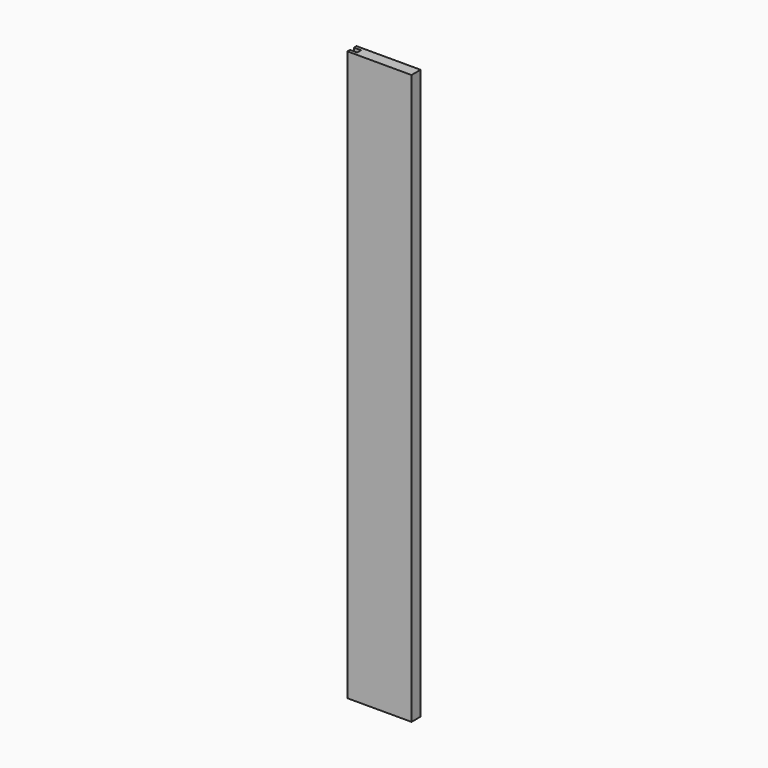
from build123d import *

# Parameters (mm, degrees)
F1_DEPTH = 950
F3_DEPTH = 950.001


with BuildPart() as f1:
    # F0 (on Top) → F1 (new body)
    with BuildSketch(Plane.XY):
        Polygon((0, -4), (0, -9.5), (136, -9.5), (136, -4), (146, -4), (146, 4), (116, 4), (110.5, 9.5), (0, 9.5), (0, 4), (12, 4), (12, -4), align=None)
    extrude(amount=F1_DEPTH)

    # F2 (on face) → F3 (cut, through all)
    with BuildSketch(Plane(origin=(0, 0, 0), x_dir=(1, 0, 0), z_dir=(0, 0, -1))):
        Polygon((107, 9.5), (107, -9.5), (110.5, -9.5), (116, -4), (146, -4), (146, 4), (136, 4), (136, 9.5), align=None)
    extrude(amount=-F3_DEPTH, mode=Mode.SUBTRACT)


solid = f1.part
